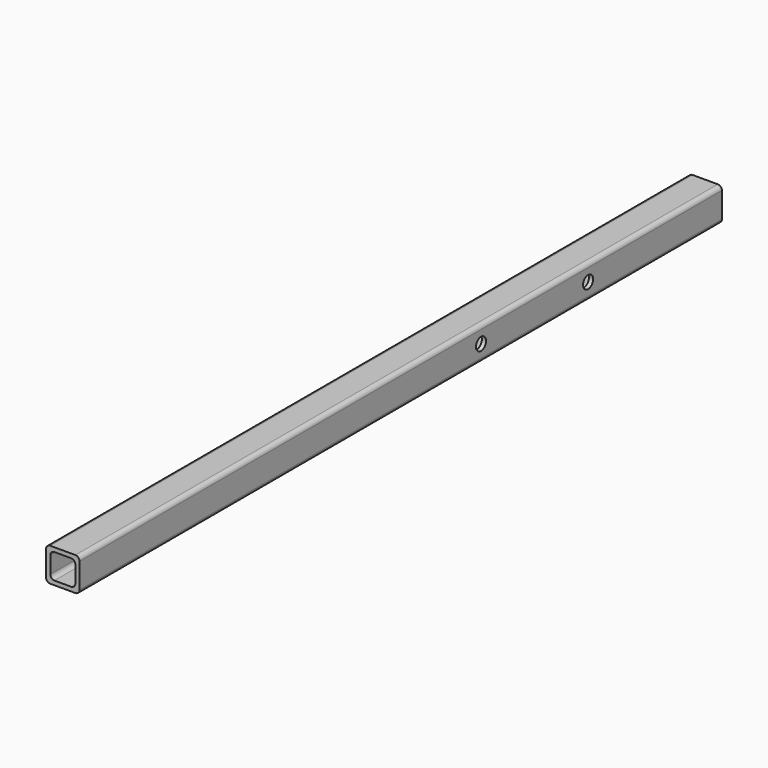
from build123d import *

# Parameters (mm, degrees)
F1_DEPTH = 609.6
F2_R     = 4.7625
F3_DEPTH = 25.4


with BuildPart() as f1:
    # F0 (on Front) → F1 (new body)
    with BuildSketch(Plane.XZ):
        with BuildLine():
            Line((-9.921028, -11.871202), (9.128972, -11.871202))
            ThreePointArc((9.128972, -11.871202), (11.374036, -10.941266), (12.303972, -8.696202))
            Line((12.303972, -8.696202), (12.303972, 10.353798))
            ThreePointArc((12.303972, 10.353798), (11.374036, 12.598862), (9.128972, 13.528798))
            Line((9.128972, 13.528798), (-9.921028, 13.528798))
            ThreePointArc((-9.921028, 13.528798), (-12.166092, 12.598862), (-13.096028, 10.353798))
            Line((-13.096028, 10.353798), (-13.096028, -8.696202))
            ThreePointArc((-13.096028, -8.696202), (-12.166092, -10.941266), (-9.921028, -11.871202))
        make_face()
        with BuildLine():
            ThreePointArc((9.128972, -5.521202), (8.199036, -7.766266), (5.953972, -8.696202))
            Line((5.953972, -8.696202), (-6.746028, -8.696202))
            ThreePointArc((-6.746028, -8.696202), (-8.991092, -7.766266), (-9.921028, -5.521202))
            Line((-9.921028, -5.521202), (-9.921028, 7.178798))
            ThreePointArc((-9.921028, 7.178798), (-8.991092, 9.423862), (-6.746028, 10.353798))
            Line((-6.746028, 10.353798), (5.953972, 10.353798))
            ThreePointArc((5.953972, 10.353798), (8.199036, 9.423862), (9.128972, 7.178798))
            Line((9.128972, 7.178798), (9.128972, -5.521202))
        make_face(mode=Mode.SUBTRACT)
    extrude(amount=F1_DEPTH)

    # F2 (on face) → F3 (cut)
    with BuildSketch(Plane.YZ.offset(12.303972)):
        with Locations((-228.6, 0.828798)):
            Circle(F2_R)
        with Locations((-127, 0.828798)):
            Circle(F2_R)
    extrude(amount=-F3_DEPTH, mode=Mode.SUBTRACT)


solid = f1.part
